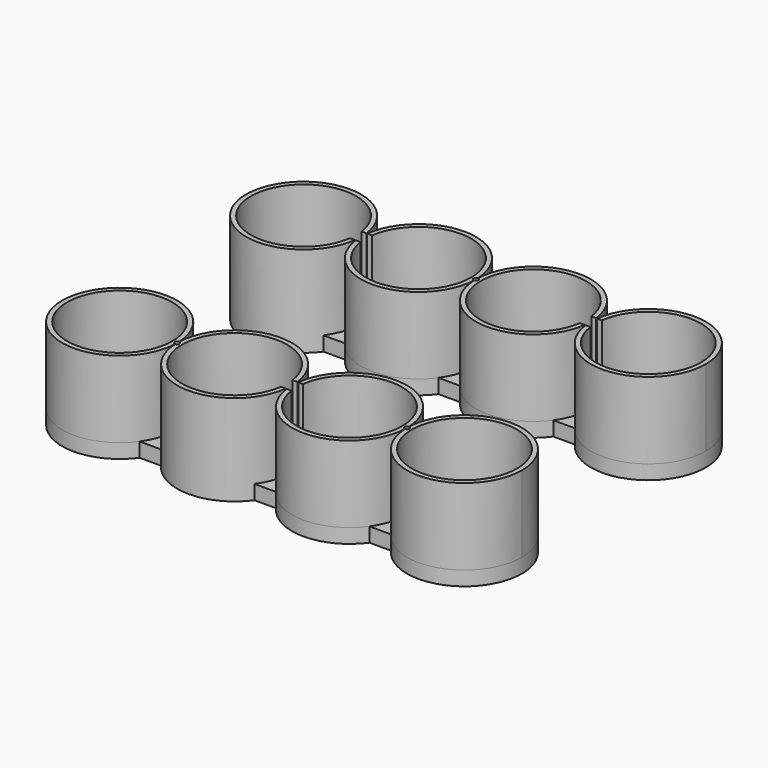
from build123d import *

# Parameters (mm, degrees)
F2_DEPTH = 1.5
F3_DEPTH = 8
F4_DEPTH = 1.5
F0_R     = 5.5
F5_DEPTH = 8
F0_R_2   = 0.5
F6_DEPTH = 25
F7_DEPTH = 25


with BuildPart() as f2:
    # F1 (on Top) → F2 (new body)
    with BuildSketch(Plane.XY):
        with BuildLine():
            Line((-10.8733971724, 3.5), (-13.1266028276, 3.5))
            ThreePointArc((-13.1266028276, 3.5), (-24, 0), (-13.1266028276, -3.5))
            Line((-13.1266028276, -3.5), (-10.8733971724, -3.5))
            ThreePointArc((-10.8733971724, -3.5), (-6, -6), (-1.1266028276, -3.5))
            Line((-1.1266028276, -3.5), (1.1266028276, -3.5))
            ThreePointArc((1.1266028276, -3.5), (6, -6), (10.8733971724, -3.5))
            Line((10.8733971724, -3.5), (13.1266028276, -3.5))
            ThreePointArc((13.1266028276, -3.5), (24, 0), (13.1266028276, 3.5))
            Line((13.1266028276, 3.5), (10.8733971724, 3.5))
            ThreePointArc((10.8733971724, 3.5), (6, 6), (1.1266028276, 3.5))
            Line((1.1266028276, 3.5), (-1.1266028276, 3.5))
            ThreePointArc((-1.1266028276, 3.5), (-6, 6), (-10.8733971724, 3.5))
        make_face()
    extrude(amount=-F2_DEPTH)

    # F0 (on Top) → F3 (join)
    with BuildSketch(Plane.XY):
        with BuildLine():
            Line((-12.5513763206, 0.75), (-12.0470595501, 0.75))
            ThreePointArc((-12.0470595501, 0.75), (-24, 0), (-12.0470595501, -0.75))
            Line((-12.0470595501, -0.75), (-12.5513763206, -0.75))
            ThreePointArc((-12.5513763206, -0.75), (-23.5, 0), (-12.5513763206, 0.75))
        make_face()
        with BuildLine():
            ThreePointArc((-0.0052083333, 0.2499457406), (-5.7490987312, 5.9947517508), (-11.9529404499, 0.75))
            Line((-11.9529404499, 0.75), (-11.4486236794, 0.75))
            ThreePointArc((-11.4486236794, 0.75), (-5.6241211876, 5.4871408874), (-0.5, 0))
            ThreePointArc((-0.5, 0), (-5.6241211876, -5.4871408874), (-11.4486236794, -0.75))
            Line((-11.4486236794, -0.75), (-11.9529404499, -0.75))
            ThreePointArc((-11.9529404499, -0.75), (-5.7490987312, -5.9947517508), (-0.0052083333, -0.2499457406))
            ThreePointArc((-0.0052083333, -0.2499457406), (-0.25, 0), (-0.0052083333, 0.2499457406))
        make_face()
        with BuildLine():
            ThreePointArc((11.9529404499, 0.75), (5.7490987312, 5.9947517508), (0.0052083333, 0.2499457406))
            ThreePointArc((0.0052083333, 0.2499457406), (0.1786086271, 0.1749255794), (0.25, 0))
            ThreePointArc((0.25, 0), (0.1786086271, -0.1749255794), (0.0052083333, -0.2499457406))
            ThreePointArc((0.0052083333, -0.2499457406), (5.7490987312, -5.9947517508), (11.9529404499, -0.75))
            Line((11.9529404499, -0.75), (11.4486236794, -0.75))
            ThreePointArc((11.4486236794, -0.75), (0.5, 0), (11.4486236794, 0.75))
            Line((11.4486236794, 0.75), (11.9529404499, 0.75))
        make_face()
        with BuildLine():
            ThreePointArc((24, 0), (18.3757374753, 5.9882235554), (12.0470595501, 0.75))
            Line((12.0470595501, 0.75), (12.5513763206, 0.75))
            ThreePointArc((12.5513763206, 0.75), (18.3758788124, 5.4871408874), (23.5, 0))
            ThreePointArc((23.5, 0), (18.3758788124, -5.4871408874), (12.5513763206, -0.75))
            Line((12.5513763206, -0.75), (12.0470595501, -0.75))
            ThreePointArc((12.0470595501, -0.75), (18.3757374753, -5.9882235554), (24, 0))
        make_face()
    extrude(amount=F3_DEPTH)

    # F0 (on Top) → F7 (cut)
    with BuildSketch(Plane.XY):
        with Locations((18, 0)):
            Circle(F0_R_2)
        with Locations((6, 0)):
            Circle(F0_R_2)
        with Locations((-6, 0)):
            Circle(F0_R_2)
        with Locations((-18, 0)):
            Circle(F0_R_2)
    extrude(amount=-F7_DEPTH, mode=Mode.SUBTRACT)


with BuildPart() as f4:
    # F1 (on Top) → F4 (new body)
    with BuildSketch(Plane.XY):
        with BuildLine():
            Line((-10.8733971724, -20.5), (-13.1266028276, -20.5))
            ThreePointArc((-13.1266028276, -20.5), (-24, -24), (-13.1266028276, -27.5))
            Line((-13.1266028276, -27.5), (-10.8733971724, -27.5))
            ThreePointArc((-10.8733971724, -27.5), (-6, -30), (-1.1266028276, -27.5))
            Line((-1.1266028276, -27.5), (1.1266028276, -27.5))
            ThreePointArc((1.1266028276, -27.5), (6, -30), (10.8733971724, -27.5))
            Line((10.8733971724, -27.5), (13.1266028276, -27.5))
            ThreePointArc((13.1266028276, -27.5), (24, -24), (13.1266028276, -20.5))
            Line((13.1266028276, -20.5), (10.8733971724, -20.5))
            ThreePointArc((10.8733971724, -20.5), (6, -18), (1.1266028276, -20.5))
            Line((1.1266028276, -20.5), (-1.1266028276, -20.5))
            ThreePointArc((-1.1266028276, -20.5), (-6, -18), (-10.8733971724, -20.5))
        make_face()
    extrude(amount=-F4_DEPTH)

    # F0 (on Top) → F5 (join)
    with BuildSketch(Plane.XY):
        with BuildLine():
            ThreePointArc((-12.0052083333, -24.2499457406), (-12.25, -24), (-12.0052083333, -23.7500542594))
            ThreePointArc((-12.0052083333, -23.7500542594), (-24, -24), (-12.0052083333, -24.2499457406))
        make_face()
        with Locations((-18, -24)):
            Circle(F0_R, mode=Mode.SUBTRACT)
        with BuildLine():
            ThreePointArc((-0.0470595501, -23.25), (-6.2509012688, -18.0052482492), (-11.9947916667, -23.7500542594))
            ThreePointArc((-11.9947916667, -23.7500542594), (-11.8213913729, -23.8250744206), (-11.75, -24))
            ThreePointArc((-11.75, -24), (-11.8213913729, -24.1749255794), (-11.9947916667, -24.2499457406))
            ThreePointArc((-11.9947916667, -24.2499457406), (-6.2509012688, -29.9947517508), (-0.0470595501, -24.75))
            Line((-0.0470595501, -24.75), (-0.5513763206, -24.75))
            ThreePointArc((-0.5513763206, -24.75), (-11.5, -24), (-0.5513763206, -23.25))
            Line((-0.5513763206, -23.25), (-0.0470595501, -23.25))
        make_face()
        with BuildLine():
            ThreePointArc((11.9947916667, -23.7500542594), (6.2509012688, -18.0052482492), (0.0470595501, -23.25))
            Line((0.0470595501, -23.25), (0.5513763206, -23.25))
            ThreePointArc((0.5513763206, -23.25), (6.3758788124, -18.5128591126), (11.5, -24))
            ThreePointArc((11.5, -24), (6.3758788124, -29.4871408874), (0.5513763206, -24.75))
            Line((0.5513763206, -24.75), (0.0470595501, -24.75))
            ThreePointArc((0.0470595501, -24.75), (6.2509012688, -29.9947517508), (11.9947916667, -24.2499457406))
            ThreePointArc((11.9947916667, -24.2499457406), (11.75, -24), (11.9947916667, -23.7500542594))
        make_face()
        with BuildLine():
            ThreePointArc((24, -24), (18.125, -18.0013022246), (12.0052083333, -23.7500542594))
            ThreePointArc((12.0052083333, -23.7500542594), (12.1786086271, -23.8250744206), (12.25, -24))
            ThreePointArc((12.25, -24), (12.1786086271, -24.1749255794), (12.0052083333, -24.2499457406))
            ThreePointArc((12.0052083333, -24.2499457406), (18.125, -29.9986977754), (24, -24))
        make_face()
        with Locations((18, -24)):
            Circle(F0_R, mode=Mode.SUBTRACT)
    extrude(amount=F5_DEPTH)

    # F0 (on Top) → F6 (cut)
    with BuildSketch(Plane.XY):
        with Locations((18, -24)):
            Circle(F0_R_2)
        with Locations((-18, -24)):
            Circle(F0_R_2)
        with Locations((6, -24)):
            Circle(F0_R_2)
        with Locations((-6, -24)):
            Circle(F0_R_2)
    extrude(amount=-F6_DEPTH, mode=Mode.SUBTRACT)


solid = Compound([f2.part, f4.part])
